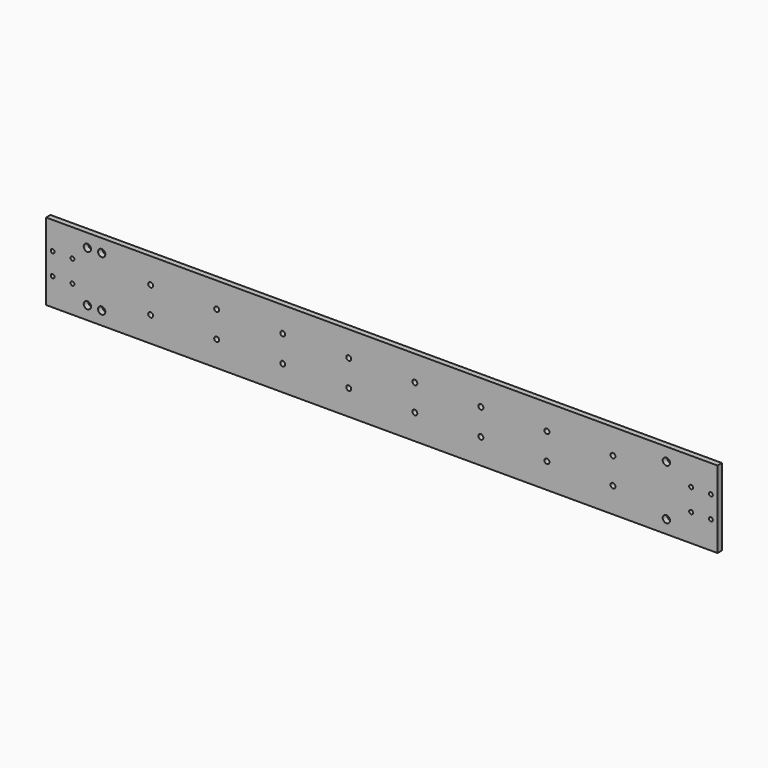
from build123d import *

# Parameters (mm, degrees)
F0_R     = 3.3
F0_R_2   = 1.75
F0_R_3   = 2.25
F1_DEPTH = 5


with BuildPart() as f1:
    # F0 (on Front) → F1 (new body)
    with BuildSketch(Plane.XZ):
        Polygon((-563, -35), (-539, -35), (-41, -35), (-22, -35), (15, -35), (15, 35), (-22, 35), (-41, 35), (-539, 35), (-563, 35), (-595, 35), (-595, -35), align=None)
        with Locations((-557.5, -23)):
            Circle(F0_R, mode=Mode.SUBTRACT)
        with Locations((-544.5, -23)):
            Circle(F0_R, mode=Mode.SUBTRACT)
        with Locations((-589, -10)):
            Circle(F0_R_2, mode=Mode.SUBTRACT)
        with Locations((-571, -10)):
            Circle(F0_R_2, mode=Mode.SUBTRACT)
        with Locations((-500, -12)):
            Circle(F0_R_3, mode=Mode.SUBTRACT)
        with Locations((-440, -12)):
            Circle(F0_R_3, mode=Mode.SUBTRACT)
        with Locations((-380, -12)):
            Circle(F0_R_3, mode=Mode.SUBTRACT)
        with Locations((-320, -12)):
            Circle(F0_R_3, mode=Mode.SUBTRACT)
        with BuildLine():
            ThreePointArc((-28.2, -23), (-32.555437, -26.126668), (-34.124881, -21))
            ThreePointArc((-34.124881, -21), (-31.5, -19.7), (-28.875119, -21))
            ThreePointArc((-28.875119, -21), (-28.373332, -21.944563), (-28.2, -23))
        make_face(mode=Mode.SUBTRACT)
        with Locations((-260, -12)):
            Circle(F0_R_3, mode=Mode.SUBTRACT)
        with Locations((-200, -12)):
            Circle(F0_R_3, mode=Mode.SUBTRACT)
        with Locations((-140, -12)):
            Circle(F0_R_3, mode=Mode.SUBTRACT)
        with Locations((-80, -12)):
            Circle(F0_R_3, mode=Mode.SUBTRACT)
        with Locations((-9, -10)):
            Circle(F0_R_2, mode=Mode.SUBTRACT)
        with Locations((9, -10)):
            Circle(F0_R_2, mode=Mode.SUBTRACT)
        with Locations((-589, 10)):
            Circle(F0_R_2, mode=Mode.SUBTRACT)
        with Locations((-571, 10)):
            Circle(F0_R_2, mode=Mode.SUBTRACT)
        with Locations((-500, 12)):
            Circle(F0_R_3, mode=Mode.SUBTRACT)
        with Locations((-440, 12)):
            Circle(F0_R_3, mode=Mode.SUBTRACT)
        with Locations((-380, 12)):
            Circle(F0_R_3, mode=Mode.SUBTRACT)
        with Locations((-320, 12)):
            Circle(F0_R_3, mode=Mode.SUBTRACT)
        with Locations((-557.5, 23)):
            Circle(F0_R, mode=Mode.SUBTRACT)
        with Locations((-544.5, 23)):
            Circle(F0_R, mode=Mode.SUBTRACT)
        with Locations((-260, 12)):
            Circle(F0_R_3, mode=Mode.SUBTRACT)
        with Locations((-200, 12)):
            Circle(F0_R_3, mode=Mode.SUBTRACT)
        with Locations((-140, 12)):
            Circle(F0_R_3, mode=Mode.SUBTRACT)
        with Locations((-80, 12)):
            Circle(F0_R_3, mode=Mode.SUBTRACT)
        with Locations((-9, 10)):
            Circle(F0_R_2, mode=Mode.SUBTRACT)
        with Locations((9, 10)):
            Circle(F0_R_2, mode=Mode.SUBTRACT)
        with Locations((-31.5, 23)):
            Circle(F0_R, mode=Mode.SUBTRACT)
    extrude(amount=F1_DEPTH)


solid = f1.part
